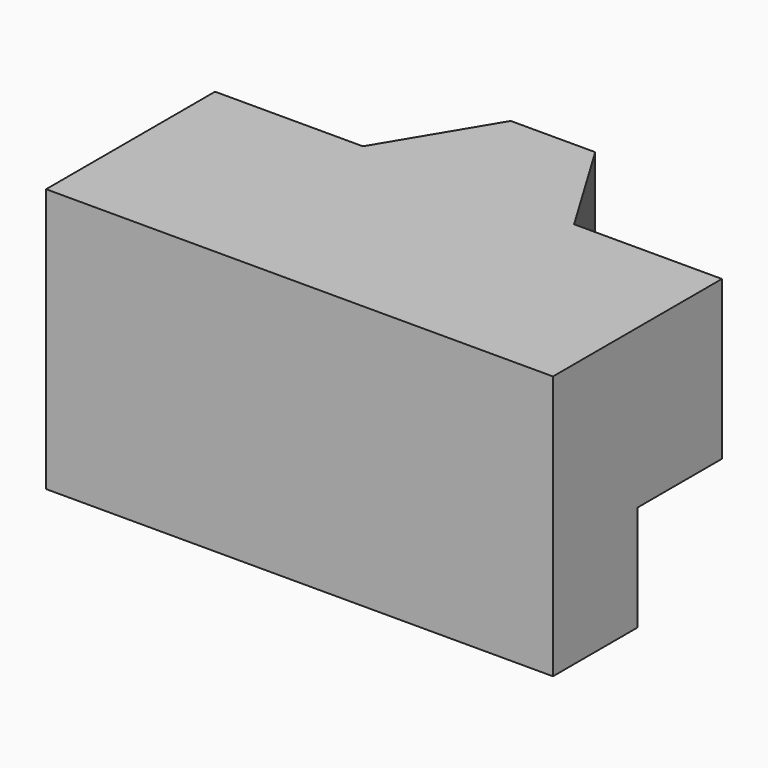
from build123d import *

# Parameters (mm, degrees)
F0_W     = 48
F0_H     = 25
F1_DEPTH = 10
F3_DEPTH = 15
F4_DEPTH = 20
F5_W     = 20
F5_H     = 10
F6_DEPTH = 48


with BuildPart() as f1:
    # F0 (on Front) → F1 (new body)
    with BuildSketch(Plane.XZ):
        Rectangle(F0_W, F0_H)
    extrude(amount=-F1_DEPTH)

    # F2 (on face) → F3 (cut)
    with BuildSketch(Plane.XY.offset(12.5)):
        Polygon((-24, 0), (-10, 0), (-4, 10), (-24, 10), align=None)
        Polygon((4, 10), (10, 0), (24, 0), (24, 10), align=None)
    extrude(amount=-F3_DEPTH, mode=Mode.SUBTRACT)

    # F0 (on Front) → F4 (join)
    with BuildSketch(Plane.XZ):
        Rectangle(F0_W, F0_H)
    extrude(amount=F4_DEPTH)

    # F5 (on face) → F6 (cut)
    with BuildSketch(Plane.YZ.offset(24)):
        with Locations((0, -7.5)):
            Rectangle(F5_W, F5_H)
    extrude(amount=-F6_DEPTH, mode=Mode.SUBTRACT)


solid = f1.part
